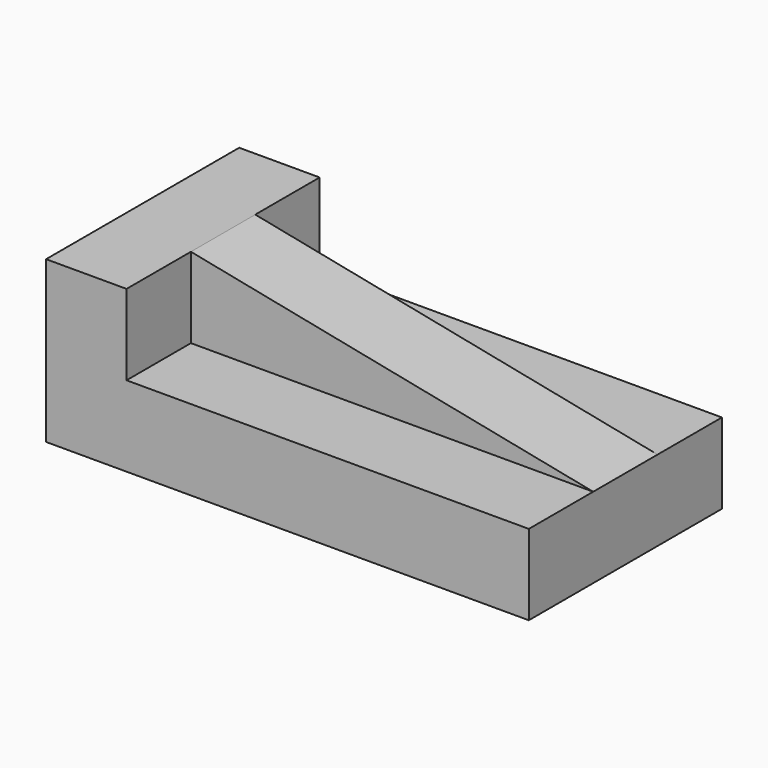
from build123d import *

# Parameters (mm, degrees)
F0_W     = 152.4
F0_H     = 50.8
F1_DEPTH = 76.2
F3_DEPTH = 25.4
F5_DEPTH = 25.4
F7_DEPTH = 25.4


with BuildPart() as f1:
    # F0 (on Front) → F1 (new body)
    with BuildSketch(Plane.XZ):
        with Locations((76.2, 25.4)):
            Rectangle(F0_W, F0_H)
    extrude(amount=F1_DEPTH)

    # F2 (on face) → F3 (cut)
    with BuildSketch(Plane.XZ.offset(76.2)):
        Polygon((25.4, 25.4), (152.4, 25.4), (25.4, 50.8), align=None)
        Polygon((25.4, 50.8), (152.4, 25.4), (152.4, 50.8), align=None)
    extrude(amount=-F3_DEPTH, mode=Mode.SUBTRACT)

    # F4 (on face) → F5 (cut)
    with BuildSketch(Plane(origin=(0, 0, 0), x_dir=(-1, 0, 0), z_dir=(0, 1, 0))):
        Polygon((-25.4, 25.4), (-25.4, 50.8), (-152.4, 25.4), align=None)
        Polygon((-152.4, 25.4), (-25.4, 50.8), (-152.4, 50.8), align=None)
    extrude(amount=-F5_DEPTH, mode=Mode.SUBTRACT)

    # F6 (on face) → F7 (cut)
    with BuildSketch(Plane(origin=(0, -25.4, 0), x_dir=(-1, 0, 0), z_dir=(0, 1, 0))):
        Polygon((-152.4, 25.4), (-25.4, 50.8), (-152.4, 50.8), align=None)
    extrude(amount=-F7_DEPTH, mode=Mode.SUBTRACT)


solid = f1.part
